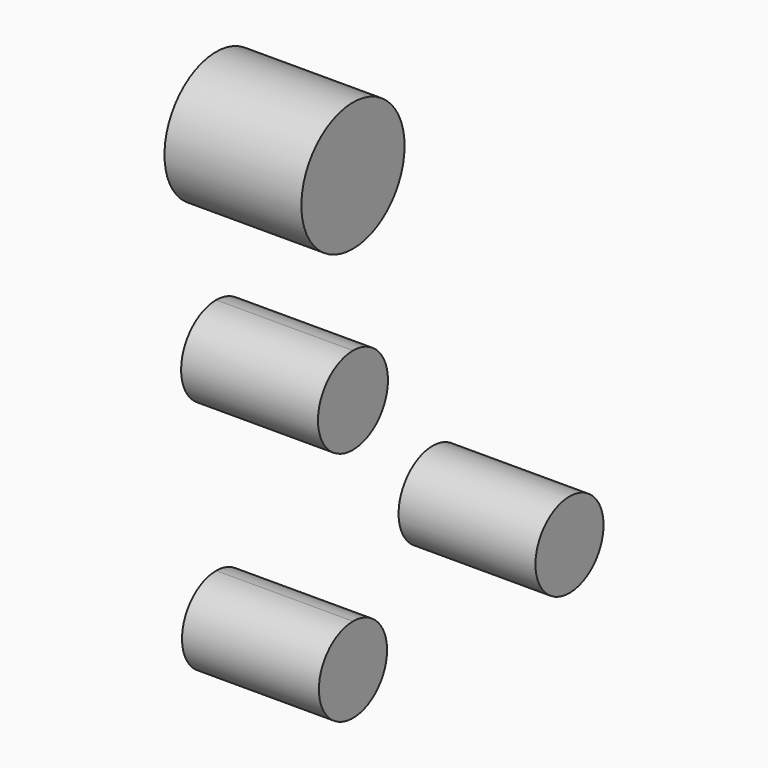
from build123d import *

# Parameters (mm, degrees)
F1_DEPTH = 25.4


with BuildPart() as f1:
    # F0 (on Right) → F1 (new body)
    with BuildSketch(Plane.YZ):
        with BuildLine():
            ThreePointArc((61.513891, -34.669332), (53.618963, -26.774404), (45.724035, -34.669332))
            ThreePointArc((45.724035, -34.669332), (53.618963, -42.56426), (61.513891, -34.669332))
        make_face()
        with BuildLine():
            ThreePointArc((11.305887, -34.669332), (8.990278, -29.078958), (3.399904, -26.763349))
            Line((3.399904, -26.763349), (3.399904, -34.669332))
            Line((3.399904, -34.669332), (11.305887, -34.669332))
        make_face()
        with BuildLine():
            Line((3.399904, -34.669332), (3.399904, -26.763349))
            ThreePointArc((3.399904, -26.763349), (-2.190471, -40.259706), (11.305887, -34.669332))
            Line((11.305887, -34.669332), (3.399904, -34.669332))
        make_face()
        with BuildLine():
            ThreePointArc((11.513463, 9.343571), (9.137056, 15.080724), (3.399904, 17.45713))
            Line((3.399904, 17.45713), (3.399904, 1.230012))
            ThreePointArc((3.399904, 1.230012), (9.137056, 3.606418), (11.513463, 9.343571))
        make_face()
        with BuildLine():
            Line((3.399904, 1.230012), (3.399904, 17.45713))
            ThreePointArc((3.399904, 17.45713), (-4.713656, 9.343571), (3.399904, 1.230012))
        make_face()
        with BuildLine():
            ThreePointArc((15.367944, 46.035774), (-5.062779, 54.498456), (3.399904, 34.067734))
            ThreePointArc((3.399904, 34.067734), (11.862586, 37.573092), (15.367944, 46.035774))
        make_face()
    extrude(amount=F1_DEPTH)


solid = f1.part
